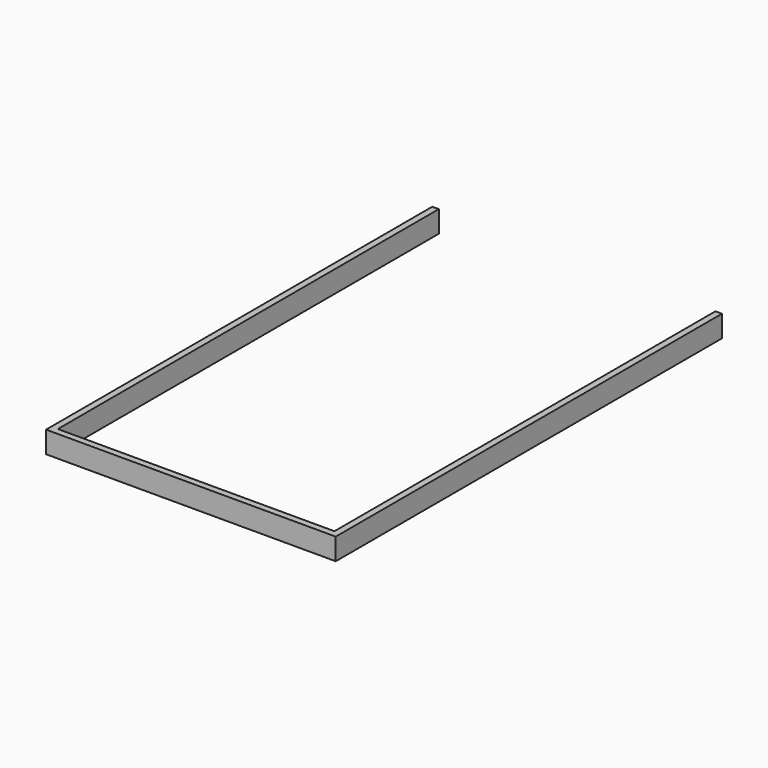
from build123d import *

# Parameters (mm, degrees)
BOX005_W     = 63.69
BOX005_H     = 10
BOX005_DEPTH = 5
BOX003_W     = 63.69
BOX003_H     = 108.14
BOX003_DEPTH = 5
BOX002_W     = 66.69
BOX002_H     = 111.14
BOX002_DEPTH = 5


with BuildPart() as cube005:
    # Box005 → Box005 (new body)
    with BuildSketch(Plane(origin=(-2, 98, 3.25), x_dir=(1, 0, 0), z_dir=(0, 0, 1))):
        with Locations((31.845, 5)):
            Rectangle(BOX005_W, BOX005_H)
    extrude(amount=BOX005_DEPTH)


with BuildPart() as cube003:
    # Box003 → Box003 (new body)
    with BuildSketch(Plane(origin=(-2, -2, 3.25), x_dir=(1, 0, 0), z_dir=(0, 0, 1))):
        with Locations((31.845, 54.07)):
            Rectangle(BOX003_W, BOX003_H)
    extrude(amount=BOX003_DEPTH)


with BuildPart() as cut009:
    # Box002 → Box002 (new body)
    with BuildSketch(Plane(origin=(-3.5, -3.5, 3.25), x_dir=(1, 0, 0), z_dir=(0, 0, 1))):
        with Locations((33.345, 55.57)):
            Rectangle(BOX002_W, BOX002_H)
    extrude(amount=BOX002_DEPTH)

    # Cut008: cut Cube003
    add(cube003.part, mode=Mode.SUBTRACT)

    # Cut009: cut Cube005
    add(cube005.part, mode=Mode.SUBTRACT)


solid = cut009.part
